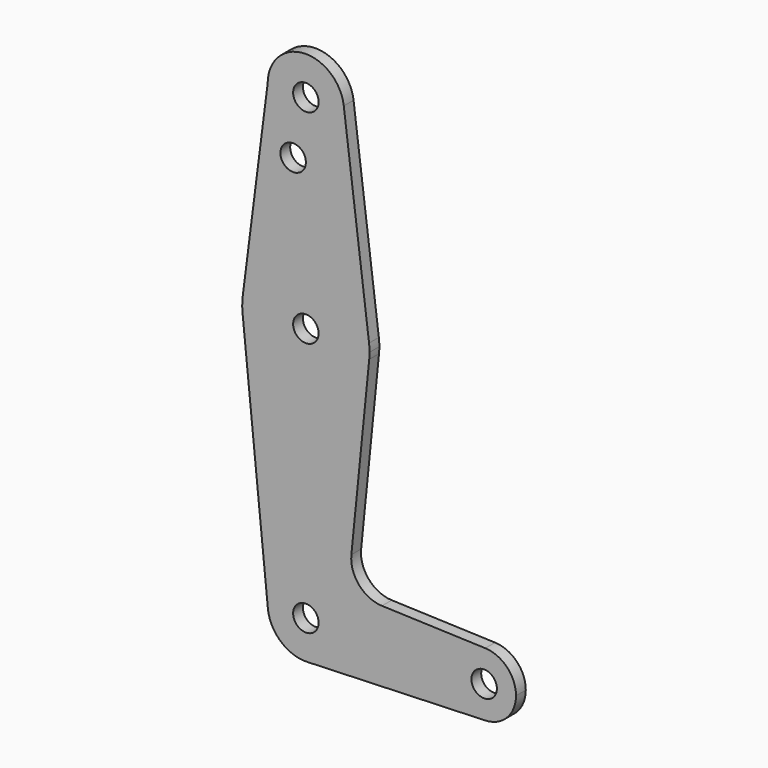
from build123d import *

# Parameters (mm, degrees)
F0_R     = 3.175
F1_DEPTH = 3.048


with BuildPart() as f1:
    # F0 (on Front) → F1 (new body)
    with BuildSketch(Plane.XZ):
        with BuildLine():
            Line((-9.525, 114.3), (-15.747457, 65.508289))
            ThreePointArc((-15.747457, 65.508289), (0.012053, 79.374995), (15.750488, 65.484375))
            Line((15.750488, 65.484375), (9.450293, 115.490625))
            ThreePointArc((9.450293, 115.490625), (9.506305, 114.896483), (9.525, 114.3))
            ThreePointArc((9.525, 114.3), (0, 104.775), (-9.525, 114.3))
        make_face()
        with Locations((-3.175, 100.0252)):
            Circle(F0_R, mode=Mode.SUBTRACT)
        with BuildLine():
            ThreePointArc((9.450293, 115.490625), (-0.596483, 123.806305), (-9.525, 114.3))
            ThreePointArc((-9.525, 114.3), (0, 104.775), (9.525, 114.3))
            ThreePointArc((9.525, 114.3), (9.506305, 114.896483), (9.450293, 115.490625))
        make_face()
        with Locations((0, 114.3)):
            Circle(F0_R, mode=Mode.SUBTRACT)
        with BuildLine():
            ThreePointArc((-9.477255, -0.9525), (-0.476848, 9.513056), (9.525, 0))
            ThreePointArc((9.525, 0), (6.854408, -6.613827), (0.340179, -9.518923))
            Line((0.340179, -9.518923), (44.733482, -7.932436))
            ThreePointArc((44.733482, -7.932436), (36.5125, 0), (44.733482, 7.932436))
            Line((44.733482, 7.932436), (18.9676, 8.853234))
            ThreePointArc((18.9676, 8.853234), (13.2612, 11.571359), (11.341187, 17.593382))
            Line((11.341187, 17.593382), (15.795426, 61.9125))
            ThreePointArc((15.795426, 61.9125), (0, 47.625), (-15.795426, 61.9125))
            Line((-15.795426, 61.9125), (-9.477255, -0.9525))
        make_face()
        with BuildLine():
            ThreePointArc((-15.747457, 65.508289), (-15.873588, 63.711757), (-15.795426, 61.9125))
            ThreePointArc((-15.795426, 61.9125), (0, 47.625), (15.795426, 61.9125))
            ThreePointArc((15.795426, 61.9125), (15.855094, 62.705253), (15.875, 63.5))
            ThreePointArc((15.875, 63.5), (15.843841, 64.494139), (15.750488, 65.484375))
            ThreePointArc((15.750488, 65.484375), (0.012053, 79.374995), (-15.747457, 65.508289))
        make_face()
        with Locations((0, 63.5)):
            Circle(F0_R, mode=Mode.SUBTRACT)
        with BuildLine():
            ThreePointArc((0.340179, -9.518923), (6.854408, -6.613827), (9.525, 0))
            ThreePointArc((9.525, 0), (-0.476848, 9.513056), (-9.477255, -0.9525))
            ThreePointArc((-9.477255, -0.9525), (-6.262383, -7.17692), (0.340179, -9.518923))
        make_face()
        Circle(F0_R, mode=Mode.SUBTRACT)
        with BuildLine():
            ThreePointArc((44.733482, 7.932436), (36.5125, 0), (44.733482, -7.932436))
            ThreePointArc((44.733482, -7.932436), (50.162007, -5.511523), (52.3875, 0))
            ThreePointArc((52.3875, 0), (50.162007, 5.511523), (44.733482, 7.932436))
        make_face()
        with Locations((44.45, 0)):
            Circle(F0_R, mode=Mode.SUBTRACT)
    extrude(amount=F1_DEPTH)


solid = f1.part
